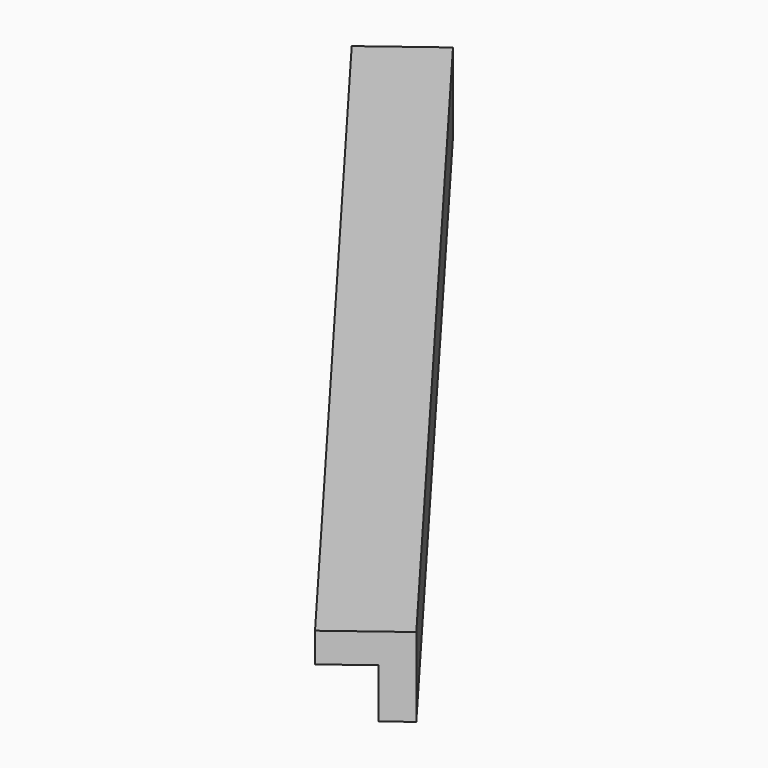
from build123d import *

# Parameters (mm, degrees)
BOX139_W               = 0.8
BOX139_H               = 10
BOX139_DEPTH           = 0.8
BOX140_W               = 0.8
BOX140_H               = 10
BOX140_DEPTH           = 0.8
CUT073_PLACEMENT_ANGLE = 37


with BuildPart() as cubo139:
    # Box139 → Box139 (new body)
    with BuildSketch(Plane.XY):
        with Locations((0.4, 5)):
            Rectangle(BOX139_W, BOX139_H)
    extrude(amount=BOX139_DEPTH)


with BuildPart() as obj1:
    # Box140 → Box140 (new body)
    with BuildSketch(Plane(origin=(0.3, 0, 0.3), x_dir=(1, 0, 0), z_dir=(0, 0, 1))):
        with Locations((0.4, 5)):
            Rectangle(BOX140_W, BOX140_H)
    extrude(amount=BOX140_DEPTH)

    # Cut073: cut Cubo139
    add(cubo139.part, mode=Mode.SUBTRACT)


with BuildPart() as obj1_1:
    # Cut073 placement: moved
    add(obj1.part.moved(Location((-131.7, 182, -1.45))).rotate(Axis((-131.7, 182, -1.45), (0, 0, 1)), CUT073_PLACEMENT_ANGLE))


solid = obj1_1.part
